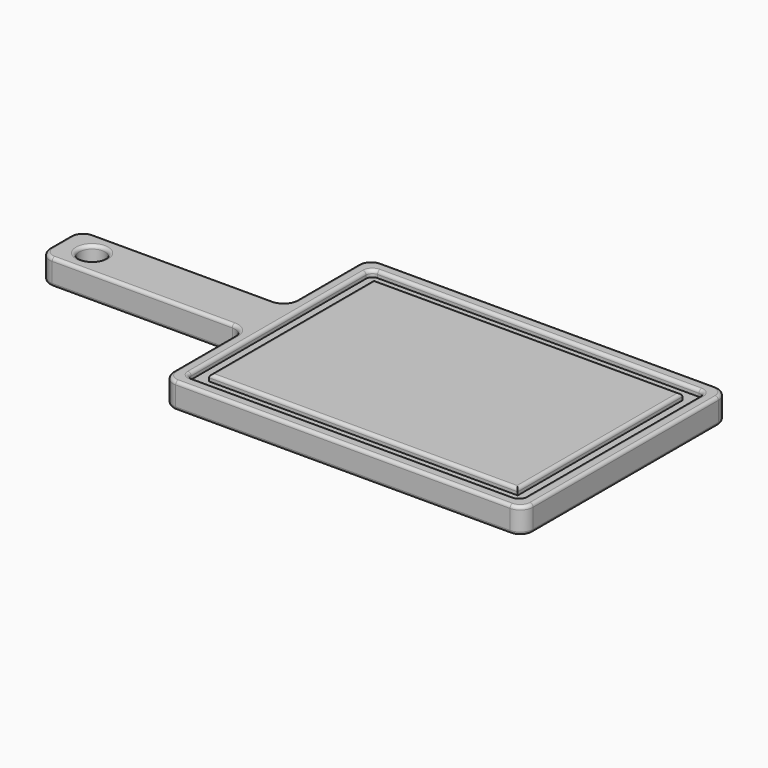
from build123d import *

# Parameters (mm, degrees)
F0_W     = 203.2
F0_H     = 50.8
F1_DEPTH = 25.4
F2_R     = 12.7
F3_DEPTH = 25.4
F5_DEPTH = 6.35
F6_R     = 6.35
F7_R     = 12.7
F8_R     = 3.175


with BuildPart() as f1:
    # F0 (on Top) → F1 (new body)
    with BuildSketch(Plane.XY):
        Polygon((0, 101.6), (0, 0), (355.6, 0), (355.6, 254), (0, 254), (0, 152.4), align=None)
        with Locations((-101.6, 127)):
            Rectangle(F0_W, F0_H)
    extrude(amount=F1_DEPTH)

    # F2 (on face) → F3 (cut)
    with BuildSketch(Plane.XY.offset(25.4)):
        with Locations((-171.45, 127)):
            Circle(F2_R)
    extrude(amount=-F3_DEPTH, mode=Mode.SUBTRACT)

    # F4 (on face) → F5 (cut)
    with BuildSketch(Plane.XY.offset(25.4)):
        Polygon((12.7, 101.6), (12.7, 12.7), (342.9, 12.7), (342.9, 241.3), (12.7, 241.3), (12.7, 152.4), align=None)
        Polygon((25.4, 101.6), (25.4, 152.4), (25.4, 228.6), (330.2, 228.6), (330.2, 25.4), (25.4, 25.4), align=None, mode=Mode.SUBTRACT)
    extrude(amount=-F5_DEPTH, mode=Mode.SUBTRACT)

    # F6
    f6_edges = [f1.edges().sort_by_distance(p)[0] for p in [
        (12.7, 241.3, 22.225),
        (12.7, 12.7, 22.225),
        (342.9, 241.3, 22.225),
        (342.9, 12.7, 22.225),
    ]]
    fillet(f6_edges, radius=F6_R)

    # F7
    f7_edges = [f1.edges().sort_by_distance(p)[0] for p in [
        (355.6, 254, 12.7),
        (0, 254, 12.7),
        (0, 0, 12.7),
        (355.6, 0, 12.7),
        (-203.2, 152.4, 12.7),
        (-203.2, 101.6, 12.7),
        (0, 101.6, 12.7),
        (0, 152.4, 12.7),
    ]]
    fillet(f7_edges, radius=F7_R)

    # F8
    f8_edges = [f1.edges().sort_by_distance(p)[0] for p in [
        (177.8, 228.6, 25.4),
        (330.2, 127, 25.4),
        (177.8, 25.4, 25.4),
        (25.4, 127, 25.4),
        (0, 50.8, 25.4),
        (-3.719744, 97.880256, 25.4),
        (3.719744, 3.719744, 25.4),
        (-101.6, 101.6, 25.4),
        (177.8, 0, 25.4),
        (-199.480256, 105.319744, 25.4),
        (351.880256, 3.719744, 25.4),
        (-203.2, 127, 25.4),
        (355.6, 127, 25.4),
        (-199.480256, 148.680256, 25.4),
        (351.880256, 250.280256, 25.4),
        (-101.6, 152.4, 25.4),
        (177.8, 254, 25.4),
        (-3.719744, 156.119744, 25.4),
        (3.719744, 250.280256, 25.4),
        (0, 203.2, 25.4),
        (177.8, 12.7, 25.4),
        (14.559872, 14.559872, 25.4),
        (341.040128, 14.559872, 25.4),
        (12.7, 127, 25.4),
        (342.9, 127, 25.4),
        (14.559872, 239.440128, 25.4),
        (341.040128, 239.440128, 25.4),
        (177.8, 241.3, 25.4),
        (-184.15, 127, 25.4),
        (0, 50.8, 0),
        (-3.719744, 97.880256, 0),
        (3.719744, 3.719744, 0),
        (-101.6, 101.6, 0),
        (177.8, 0, 0),
        (-199.480256, 105.319744, 0),
        (351.880256, 3.719744, 0),
        (-203.2, 127, 0),
        (355.6, 127, 0),
        (-199.480256, 148.680256, 0),
        (351.880256, 250.280256, 0),
        (-101.6, 152.4, 0),
        (177.8, 254, 0),
        (-3.719744, 156.119744, 0),
        (3.719744, 250.280256, 0),
        (0, 203.2, 0),
        (-184.15, 127, 0),
    ]]
    fillet(f8_edges, radius=F8_R)


solid = f1.part
